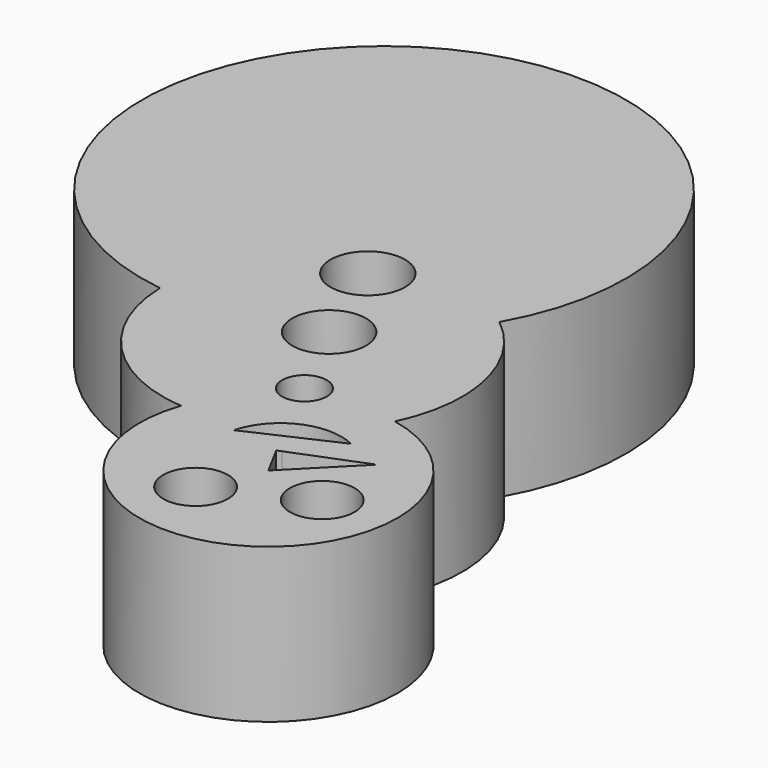
from build123d import *

# Parameters (mm, degrees)
F0_R     = 5.333529
F0_R_2   = 5.332367
F0_R_3   = 3.677197
F0_R_4   = 6.087348
F0_R_5   = 6.1412
F1_DEPTH = 25.4


with BuildPart() as f1:
    # F0 (on Top) → F1 (new body)
    with BuildSketch(Plane.XY):
        with BuildLine():
            ThreePointArc((41.492229, -30.026382), (43.360964, -13.820809), (34.695054, 0))
            ThreePointArc((34.695054, 0), (-17.747287, 55.289673), (-5.297645, -19.891133))
            ThreePointArc((-5.297645, -19.891133), (1.41971, -36.176737), (17.294995, -43.813433))
            ThreePointArc((17.294995, -43.813433), (47.843519, -69.30078), (41.492229, -30.026382))
        make_face()
        with Locations((32.871384, -60.263287)):
            Circle(F0_R, mode=Mode.SUBTRACT)
        with BuildLine():
            ThreePointArc((26.836921, -44.866737), (32.37627, -38.293946), (40.971223, -38.4068))
            Line((40.971223, -38.4068), (26.836921, -44.866737))
        make_face(mode=Mode.SUBTRACT)
        Polygon((37.852467, -50.322667), (37.330735, -50.850112), (34.616582, -45.862563), (35.351137, -45.571364), (47.197793, -40.875014), align=None, mode=Mode.SUBTRACT)
        with Locations((47.882188, -52.954983)):
            Circle(F0_R_2, mode=Mode.SUBTRACT)
        with Locations((26.654815, -30.084712)):
            Circle(F0_R_3, mode=Mode.SUBTRACT)
        with Locations((19.331622, -15.858253)):
            Circle(F0_R_4, mode=Mode.SUBTRACT)
        with Locations((13.019992, 0)):
            Circle(F0_R_5, mode=Mode.SUBTRACT)
    extrude(amount=-F1_DEPTH)


solid = f1.part
